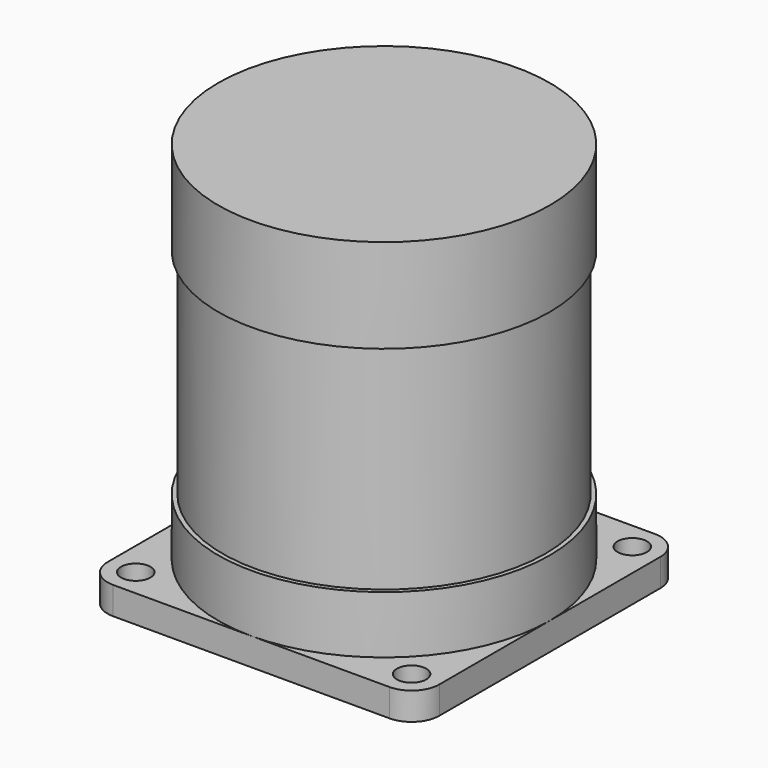
from build123d import *

# Parameters (mm, degrees)
SKETCH_R             = 2.5
PAD_DEPTH            = 4.7
SKETCH_MIRRORED_2_R  = 2.5
PAD_MIRRORED_2_DEPTH = 4.7


with BuildPart() as part:
    # Sketch → Pad (new body)
    with BuildSketch(Plane.XY):
        with BuildLine():
            Line((0, 0), (28.25, 0))
            Line((28.25, 0), (28.25, 23.538582))
            ThreePointArc((28.25, 23.538582), (26.870058, 26.870058), (23.538582, 28.25))
            Line((23.538582, 28.25), (0, 28.25))
            Line((0, 28.25), (0, 0))
        make_face()
        with Locations((23.5, 23.5)):
            Circle(SKETCH_R, mode=Mode.SUBTRACT)
    pad = extrude(amount=PAD_DEPTH)

    # Sketch Mirrored 2 → Pad Mirrored 2 (add)
    with BuildSketch(Plane(origin=(0, 0, 0), x_dir=(-1, 0, 0), z_dir=(0, 0, -1))):
        with BuildLine():
            Line((0, 0), (28.25, 0))
            Line((28.25, 0), (28.25, 23.538582))
            ThreePointArc((28.25, 23.538582), (26.870058, 26.870058), (23.538582, 28.25))
            Line((23.538582, 28.25), (0, 28.25))
            Line((0, 28.25), (0, 0))
        make_face()
        with Locations((23.5, 23.5)):
            Circle(SKETCH_MIRRORED_2_R, mode=Mode.SUBTRACT)
    pad_mirrored_2 = extrude(amount=-PAD_MIRRORED_2_DEPTH)

    # Mirrored001: Pad, Pad Mirrored 2 across Sketch H_Axis
    add(pad.mirror(Plane.ZX))
    add(pad_mirrored_2.mirror(Plane.ZX))

    # Sketch001 → Revolution (revolve)
    with BuildSketch(Plane.XZ):
        Polygon((19, 0), (28.25, 0), (28.25, 14.5), (27.5, 14.5), (27.5, 51), (28.25, 51), (28.25, 67), (0, 67), (0, -1.5), (19, -1.5), align=None)
    revolve(axis=Axis((0, 0, 0), (0, 0, 1)))


solid = part.part
